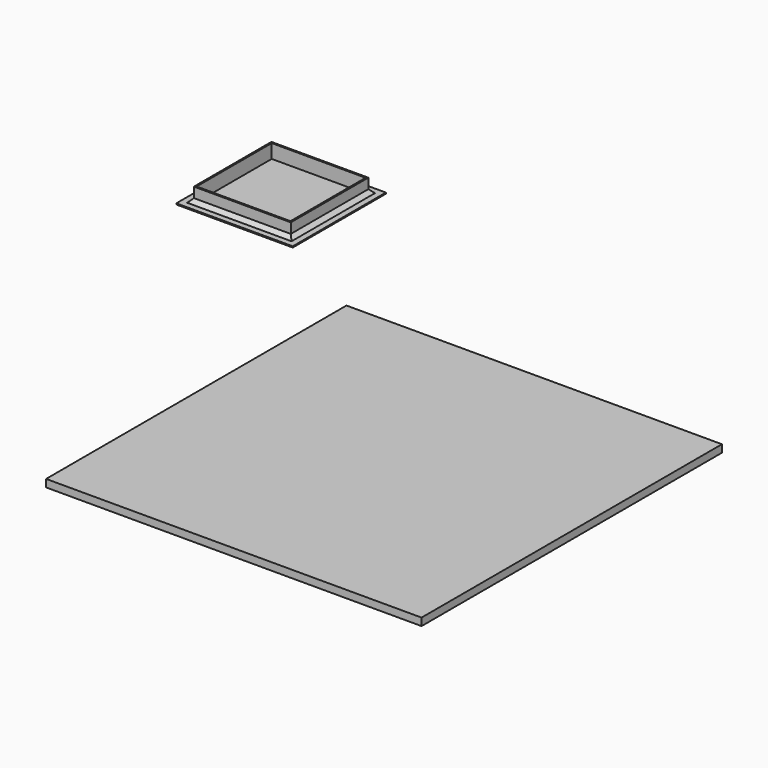
from build123d import *

# Parameters (mm, degrees)
F0_W     = 100
F0_H     = 100
F1_DEPTH = 2
F2_W     = 25.8
F2_H     = 25.8
F2_W_2   = 25
F2_H_2   = 25
F3_DEPTH = 4
F2_W_3   = 31
F2_H_3   = 31
F4_DEPTH = 0.3
F5_SIZE  = 1


with BuildPart() as f1:
    # F0 (on Top) → F1 (new body)
    with BuildSketch(Plane.XY):
        with Locations((50, -50)):
            Rectangle(F0_W, F0_H)
    extrude(amount=F1_DEPTH)


with BuildPart() as f3:
    # F2 (on Top) → F3 (new body)
    with BuildSketch(Plane.XY):
        with Locations((-42.9286845028, 31.9038328333)):
            Rectangle(F2_W, F2_H)
        with Locations((-42.9286845028, 31.9038328333)):
            Rectangle(F2_W_2, F2_H_2, mode=Mode.SUBTRACT)
    extrude(amount=F3_DEPTH)

    # F2 (on Top) → F4 (join)
    with BuildSketch(Plane.XY):
        with Locations((-42.9286845028, 31.9038328333)):
            Rectangle(F2_W_3, F2_H_3)
        with Locations((-42.9286845028, 31.9038328333)):
            Rectangle(F2_W, F2_H, mode=Mode.SUBTRACT)
        with Locations((-42.9286845028, 31.9038328333)):
            Rectangle(F2_W, F2_H)
        with Locations((-42.9286845028, 31.9038328333)):
            Rectangle(F2_W_2, F2_H_2, mode=Mode.SUBTRACT)
        with Locations((-42.9286845028, 31.9038328333)):
            Rectangle(F2_W_2, F2_H_2)
    extrude(amount=F4_DEPTH)

    # F5
    f5_edges = [f3.edges().sort_by_distance(p)[0] for p in [
        (-42.928685, 44.803833, 0.3),
        (-30.028685, 31.903833, 0.3),
        (-55.828685, 31.903833, 0.3),
        (-42.928685, 19.003833, 0.3),
    ]]
    chamfer(f5_edges, length=F5_SIZE)


solid = Compound([f1.part, f3.part])
